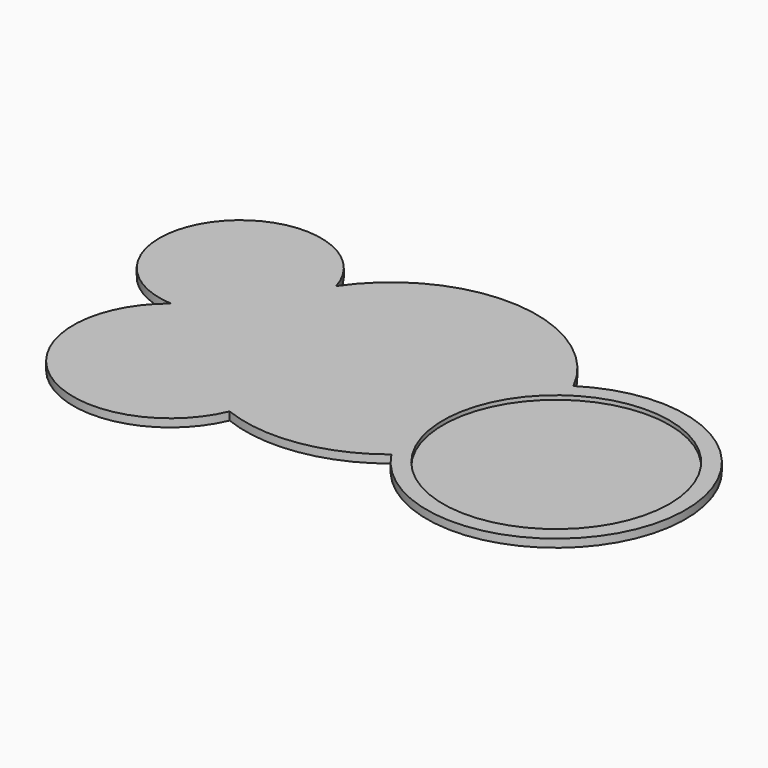
from build123d import *

# Parameters (mm, degrees)
PAD_DEPTH    = 152.4
SKETCH001_R  = 2133.6
POCKET_DEPTH = 76.2


with BuildPart() as part:
    # Sketch → Pad (new body)
    with BuildSketch(Plane.XY):
        with BuildLine():
            ThreePointArc((-2268.771847, 1542.018335), (-4924.616457, 2058.329933), (-3817.345092, -410.280685))
            ThreePointArc((-3817.345092, -410.280685), (-3790.157019, -3300.159789), (-997.78766, -2555.301553))
            ThreePointArc((-997.78766, -2555.301553), (415.629454, -2711.530637), (1717.358723, -2139.117869))
            ThreePointArc((1717.358723, -2139.117869), (6148.640883, -1332.378336), (2448.801234, 1236.332786))
            ThreePointArc((2448.801234, 1236.332786), (177.379703, 2737.459165), (-2268.771847, 1542.018335))
        make_face()
    extrude(amount=PAD_DEPTH)

    # Sketch001 (on Face7 of Pad) → Pocket (cut)
    with BuildSketch(Plane.XY.offset(152.4)):
        with Locations((3765.55, -815.975)):
            Circle(SKETCH001_R)
    extrude(amount=-POCKET_DEPTH, mode=Mode.SUBTRACT)


solid = part.part
